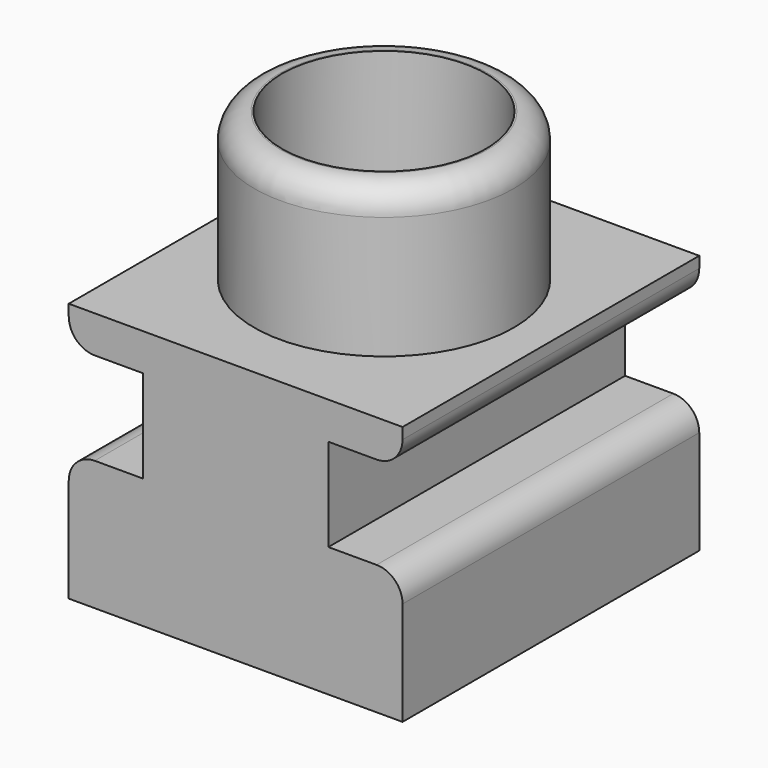
from build123d import *

# Parameters (mm, degrees)
PAD_DEPTH     = 10
SKETCH001_R   = 3.5
SKETCH001_R_2 = 2.75
PAD001_DEPTH  = 4
FILLET_R      = 0.7


with BuildPart() as part:
    # Sketch → Pad (new body)
    with BuildSketch(Plane.XZ):
        Polygon((-4.5, 0), (4.5, 0), (4.5, 3.5), (2.5, 3.5), (2.5, 6), (4.5, 6), (4.5, 7), (-4.5, 7), (-4.5, 6), (-2.5, 6), (-2.5, 3.5), (-4.5, 3.5), align=None)
    extrude(amount=PAD_DEPTH)

    # Sketch001 (on Face7 of Pad) → Pad001 (join)
    with BuildSketch(Plane(origin=(0, 0, 7), x_dir=(-1, 0, 0), z_dir=(0, 0, 1))):
        with Locations((0, 5)):
            Circle(SKETCH001_R)
        with Locations((0, 5)):
            Circle(SKETCH001_R_2, mode=Mode.SUBTRACT)
    extrude(amount=PAD001_DEPTH)

    # Fillet
    fillet_edges = [part.edges().sort_by_distance(p)[0] for p in [
        (-4.5, -5, 3.5),
        (4.5, -5, 3.5),
        (3.5, -5, 11),
        (-4.5, -5, 6),
        (4.5, -5, 6),
    ]]
    fillet(fillet_edges, radius=FILLET_R)


solid = part.part
